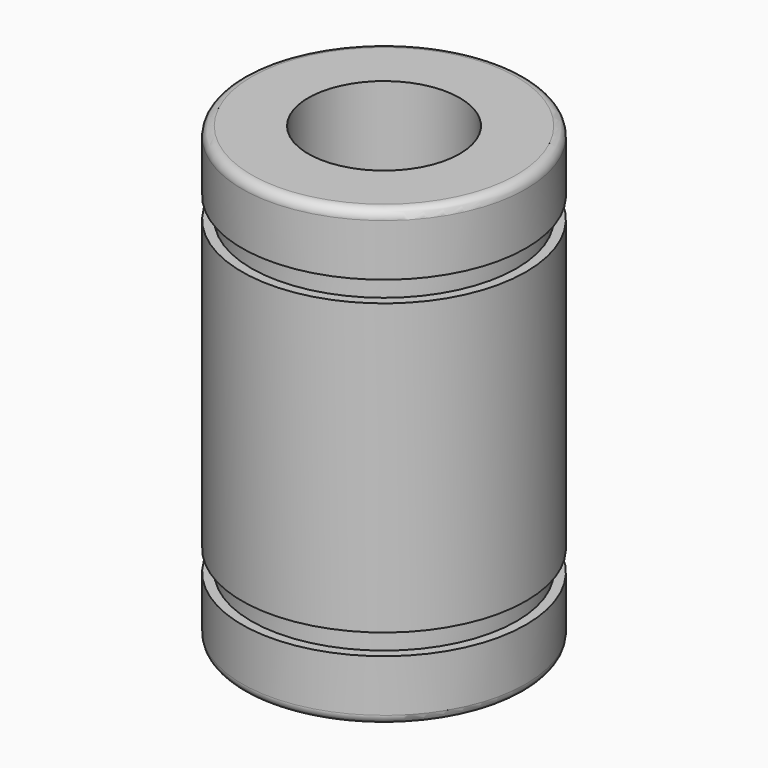
from build123d import *

# Parameters (mm, degrees)
F0_R     = 7.5
F0_R_2   = 4
F1_DEPTH = 24
F4_R     = 7.5
F4_R_2   = 7
F5_DEPTH = 1.1
F6_R     = 7.5
F6_R_2   = 7
F7_DEPTH = 1.1
F8_R     = 0.5


with BuildPart() as f1:
    # F0 (on Top) → F1 (new body)
    with BuildSketch(Plane.XY):
        Circle(F0_R)
        Circle(F0_R_2, mode=Mode.SUBTRACT)
    extrude(amount=F1_DEPTH)

    # F4 (on offset) → F5 (cut)
    with BuildSketch(Plane(origin=(0, 0, 3.25), x_dir=(1, 0, 0), z_dir=(0, 0, -1))):
        Circle(F4_R)
        Circle(F4_R_2, mode=Mode.SUBTRACT)
    extrude(amount=-F5_DEPTH, mode=Mode.SUBTRACT)

    # F6 (on offset) → F7 (cut)
    with BuildSketch(Plane.XY.offset(20.75)):
        Circle(F6_R)
        Circle(F6_R_2, mode=Mode.SUBTRACT)
    extrude(amount=-F7_DEPTH, mode=Mode.SUBTRACT)

    # F8
    f8_edges = [f1.edges().sort_by_distance(p)[0] for p in [
        (-7.5, 0, 24),
        (-7.5, 0, 0),
    ]]
    fillet(f8_edges, radius=F8_R)


solid = f1.part
